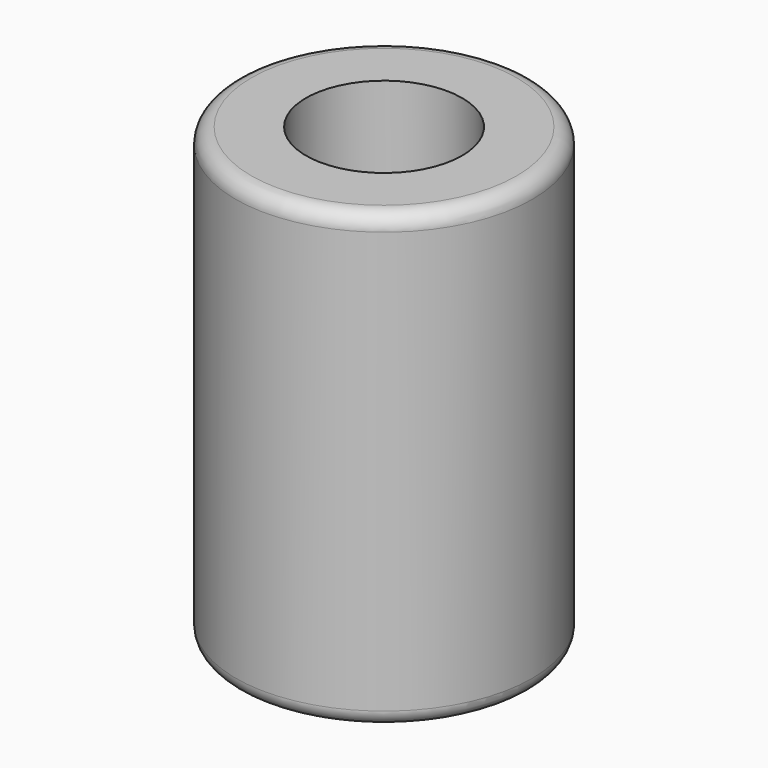
from build123d import *

# Parameters (mm, degrees)
F0_R     = 9.5
F0_R_2   = 5
F1_DEPTH = 29
F2_R     = 1


with BuildPart() as f1:
    # F0 (on Top) → F1 (new body)
    with BuildSketch(Plane.XY):
        Circle(F0_R)
        Circle(F0_R_2, mode=Mode.SUBTRACT)
    extrude(amount=-F1_DEPTH)

    # F2
    f2_edges = [f1.edges().sort_by_distance(p)[0] for p in [
        (-9.5, 0, 0),
        (-9.5, 0, -29),
    ]]
    fillet(f2_edges, radius=F2_R)


solid = f1.part
